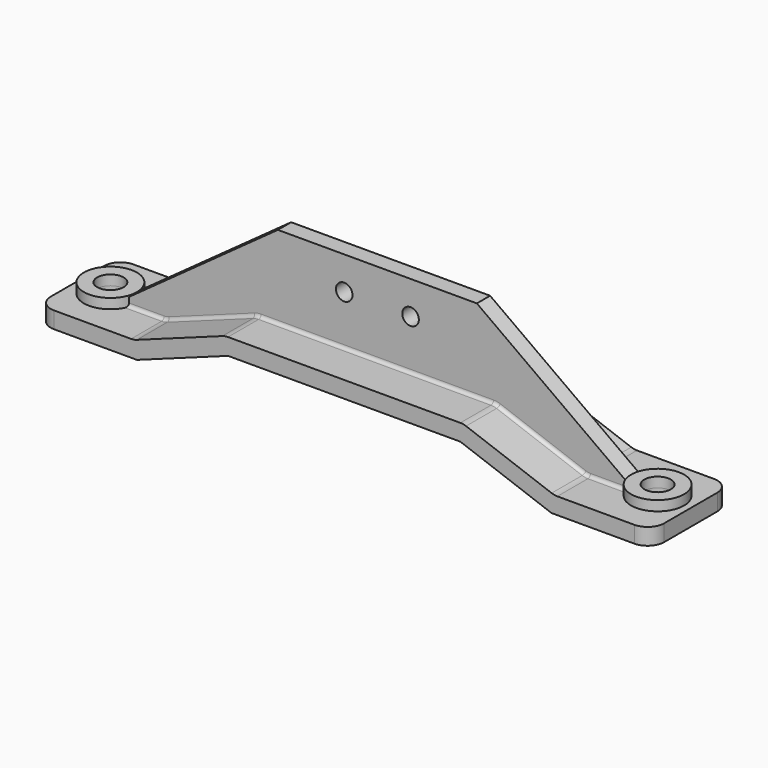
from build123d import *

# Parameters (mm, degrees)
F1_DEPTH = 15
F0_R     = 2.5
F3_DEPTH = 2.5
F2_R     = 4
F4_DEPTH = 5.001
F5_R     = 5
F6_R     = 1
F7_R     = 5
F2_R_2   = 8
F8_DEPTH = 3


with BuildPart() as f1:
    # F0 (on Front) → F1 (new body, symmetric)
    with BuildSketch(Plane.XZ):
        Polygon((-35.0252258055, 0), (0, 0), (35.0252258055, 0), (62.5, -10), (92.5, -10), (92.5, -5), (78.5, -5), (63.3816349035, -5), (35.906860709, 5), (0, 5), (-35.906860709, 5), (-63.3816349035, -5), (-78.5, -5), (-92.5, -5), (-92.5, -10), (-62.5, -10), align=None)
    extrude(amount=F1_DEPTH, both=True)

    # F0 (on Front) → F3 (join, symmetric)
    with BuildSketch(Plane.XZ):
        Polygon((-35.0252258055, 0), (0, 0), (35.0252258055, 0), (62.5, -10), (92.5, -10), (92.5, -5), (78.5, -5), (63.3816349035, -5), (35.906860709, 5), (0, 5), (-35.906860709, 5), (-63.3816349035, -5), (-78.5, -5), (-92.5, -5), (-92.5, -10), (-62.5, -10), align=None)
        Polygon((-30, 30), (-78.5, -5), (-63.3816349035, -5), (-35.906860709, 5), (0, 5), (35.906860709, 5), (63.3816349035, -5), (78.5, -5), (30, 30), (0, 30), align=None)
        with Locations((-10, 20)):
            Circle(F0_R, mode=Mode.SUBTRACT)
        with Locations((10, 20)):
            Circle(F0_R, mode=Mode.SUBTRACT)
    extrude(amount=F3_DEPTH, both=True)

    # F2 (on face) → F4 (cut, through all)
    with BuildSketch(Plane.XY.offset(-5)):
        with Locations((-82.5, 0)):
            Circle(F2_R)
        with Locations((82.5, 0)):
            Circle(F2_R)
    extrude(amount=-F4_DEPTH, mode=Mode.SUBTRACT)

    # F5
    f5_edges = [f1.edges().sort_by_distance(p)[0] for p in [
        (-63.381635, -8.75, -5),
        (-63.381635, 8.75, -5),
        (-35.906861, -8.75, 5),
        (-35.906861, 8.75, 5),
        (63.381635, 8.75, -5),
        (63.381635, -8.75, -5),
        (35.906861, -8.75, 5),
        (35.906861, 8.75, 5),
    ]]
    fillet(f5_edges, radius=F5_R)

    # F6
    f6_edges = [f1.edges().sort_by_distance(p)[0] for p in [
        (0, -2.5, 5),
        (0, 2.5, 5),
    ]]
    fillet(f6_edges, radius=F6_R)

    # F7
    f7_edges = [f1.edges().sort_by_distance(p)[0] for p in [
        (-92.5, -15, -7.5),
        (92.5, -15, -7.5),
        (92.5, 15, -7.5),
        (-92.5, 15, -7.5),
    ]]
    fillet(f7_edges, radius=F7_R)

    # F2 (on face) → F8 (join)
    with BuildSketch(Plane.XY.offset(-5)):
        with Locations((-82.5, 0)):
            Circle(F2_R_2)
        with Locations((-82.5, 0)):
            Circle(F2_R, mode=Mode.SUBTRACT)
        with Locations((82.5, 0)):
            Circle(F2_R_2)
        with Locations((82.5, 0)):
            Circle(F2_R, mode=Mode.SUBTRACT)
    extrude(amount=F8_DEPTH)


solid = f1.part
